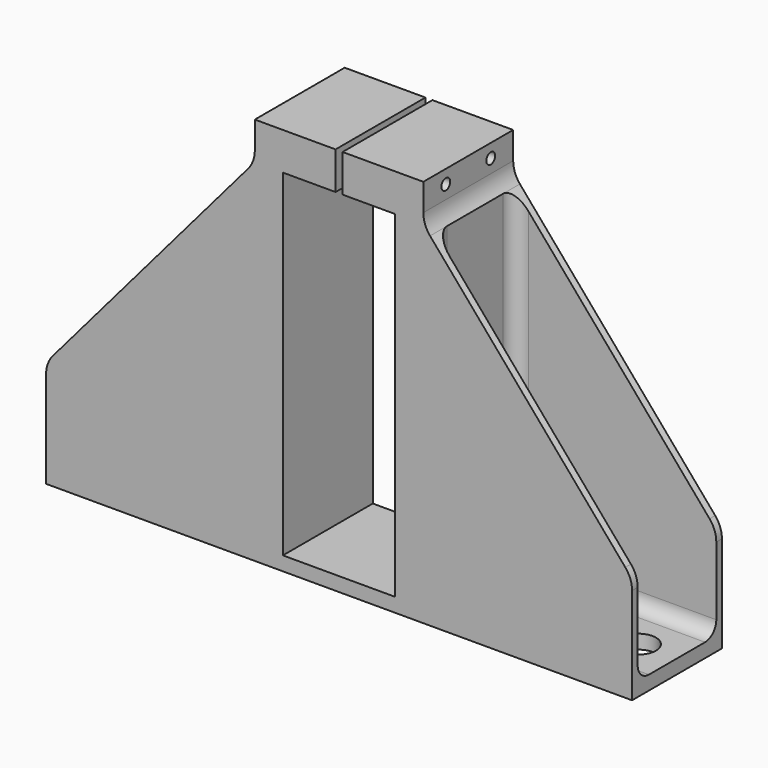
from build123d import *

# Parameters (mm, degrees)
F1_DEPTH       = 50.8
F3_D           = 6.4
F3_DEPTH       = 38.6
F3_CBORE_D     = 11.25
F3_CBORE_DEPTH = 6
F3_TIP         = 1.9227539809
F4_W           = 91.3515032281
F4_H           = 44.45
F5_DEPTH       = 180.1
F7_D           = 16
F8_R           = 6.35
F9_D           = 5
F9_CBORE_D     = 11.25
F9_CBORE_DEPTH = 6


with BuildPart() as f1:
    # F0 (on Front) → F1 (new body)
    with BuildSketch(Plane.XZ):
        with BuildLine():
            Line((-132.5, -38.8652200884), (-132.5, -82.55))
            Line((-132.5, -82.55), (132.5, -82.55))
            Line((132.5, -82.55), (132.5, -38.8652200884))
            ThreePointArc((132.5, -38.8652200884), (131.7135236391, -34.4654525376), (129.4515032281, -30.610616195))
            Line((129.4515032281, -30.610616195), (41.1484967719, 72.635616195))
            ThreePointArc((41.1484967719, 72.635616195), (38.8864763609, 76.4904525376), (38.1, 80.8902200884))
            Line((38.1, 80.8902200884), (38.1, 93.182))
            Line((38.1, 93.182), (1.5875, 93.182))
            Line((1.5875, 93.182), (1.5875, 76.2))
            Line((1.5875, 76.2), (25.4, 76.2))
            Line((25.4, 76.2), (25.4, -76.2))
            Line((25.4, -76.2), (-25.4, -76.2))
            Line((-25.4, -76.2), (-25.4, 76.2))
            Line((-25.4, 76.2), (-1.5875, 76.2))
            Line((-1.5875, 76.2), (-1.5875, 93.182))
            Line((-1.5875, 93.182), (-38.1, 93.182))
            Line((-38.1, 93.182), (-38.1, 80.8902200884))
            ThreePointArc((-38.1, 80.8902200884), (-38.8864763609, 76.4904525376), (-41.1484967719, 72.635616195))
            Line((-41.1484967719, 72.635616195), (-129.4515032281, -30.610616195))
            ThreePointArc((-129.4515032281, -30.610616195), (-131.7135236391, -34.4654525376), (-132.5, -38.8652200884))
        make_face()
    extrude(amount=F1_DEPTH)

    # F3
    with Locations(Plane(origin=(-38.1, 0, 0), x_dir=(0, -1, 0), z_dir=(-1, 0, 0))):
        with Locations((12.7, 87.0361100442), (38.1, 87.0361100442)):
            CounterBoreHole(F3_D / 2, F3_CBORE_D / 2, F3_CBORE_DEPTH, depth=F3_DEPTH)
            with Locations((0, 0, -(F3_DEPTH + F3_TIP / 2))):  # 118° drill point
                Cone(0, F3_D / 2, F3_TIP, mode=Mode.SUBTRACT)

    # F4 (on face) → F5 (cut)
    with BuildSketch(Plane.XY.offset(-76.2)):
        with Locations((86.8242483859, -25.4)):
            Rectangle(F4_W, F4_H)
        with Locations((-86.8242483859, -25.4)):
            Rectangle(F4_W, F4_H)
    extrude(amount=F5_DEPTH, mode=Mode.SUBTRACT)

    # F7 (through all)
    with Locations(Plane(origin=(0, 0, -82.55), x_dir=(1, 0, 0), z_dir=(0, 0, -1))):
        with Locations((-115, 25.4), (115, 25.4)):
            Hole(F7_D / 2)

    # F8
    f8_edges = [f1.edges().sort_by_distance(p)[0] for p in [
        (86.824248, -3.175, -76.2),
        (41.148497, -3.175, -1.782192),
        (41.148497, -25.4, -76.2),
        (86.824248, -47.625, -76.2),
        (41.148497, -47.625, -1.782192),
        (-41.148497, -25.4, -76.2),
        (-86.824248, -47.625, -76.2),
        (-41.148497, -47.625, -1.782192),
        (-86.824248, -3.175, -76.2),
        (-41.148497, -3.175, -1.782192),
    ]]
    fillet(f8_edges, radius=F8_R)

    # F9 (through all)
    with Locations(Plane(origin=(-38.1, 0, 0), x_dir=(0, -1, 0), z_dir=(-1, 0, 0))):
        with Locations((12.7, 87.0361100442), (38.1, 87.0361100442)):
            CounterBoreHole(F9_D / 2, F9_CBORE_D / 2, F9_CBORE_DEPTH)


solid = f1.part
